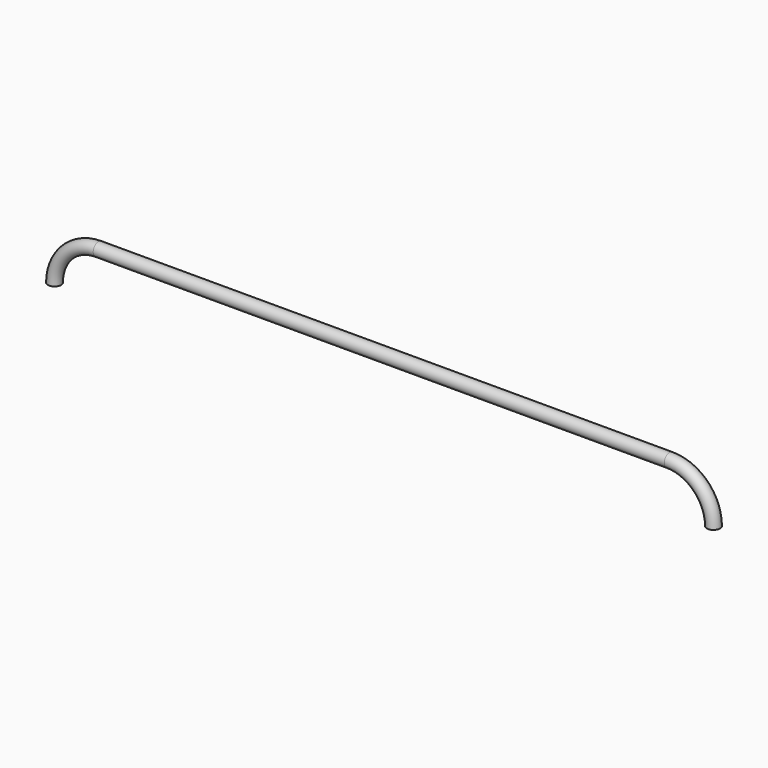
from build123d import *

# Parameters (mm, degrees)
F1_R = 15
F3_T = -3


with BuildPart() as f2:
    # F2: sweep along a path in F0
    with BuildLine(Plane.XZ) as f2_path:
        ThreePointArc((750, 1400), (720.7106781187, 1470.7106781187), (650, 1500))
        Line((650, 1500), (0, 1500))
        Line((0, 1500), (-650, 1500))
        ThreePointArc((-650, 1500), (-720.7106781187, 1470.7106781187), (-750, 1400))
    # F1 (on Right) → F2 (sweep)
    with BuildSketch(Plane.YZ):
        with Locations((0, 1500)):
            Circle(F1_R)
    sweep(path=f2_path.line)

    # F3
    f3_openings = [f2.faces().sort_by_distance(p)[0] for p in [
        (-750, 0, 1400),
        (750, 0, 1400),
    ]]
    offset(amount=F3_T, openings=f3_openings, kind=Kind.INTERSECTION)


solid = f2.part
